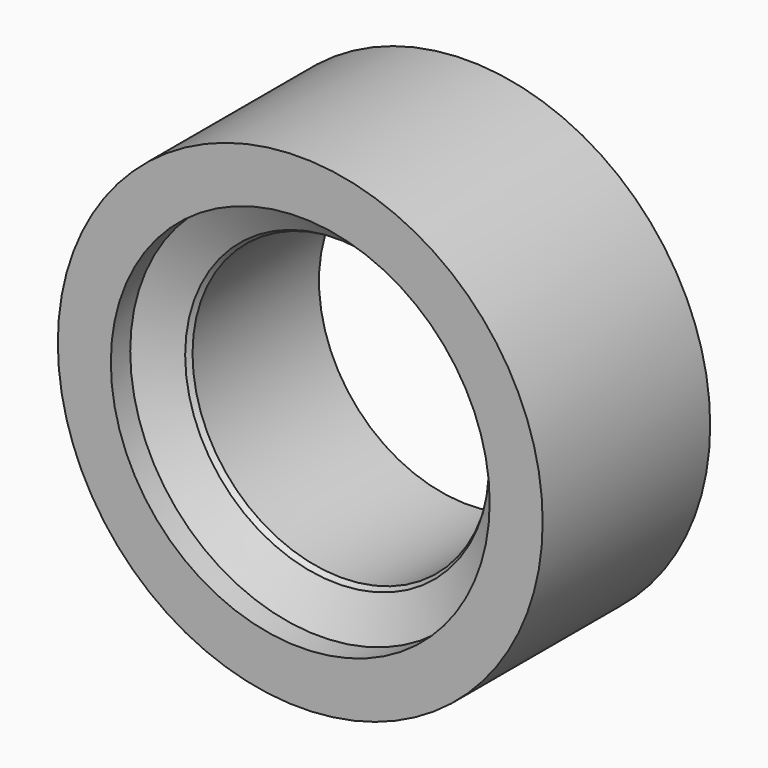
from build123d import *

# Parameters (mm, degrees)
F0_R     = 279.4
F0_R_2   = 171.45
F1_DEPTH = 241.3


with BuildPart() as f1:
    # F0 (on Front) → F1 (new body)
    with BuildSketch(Plane.XZ):
        Circle(F0_R)
        Circle(F0_R_2, mode=Mode.SUBTRACT)
    extrude(amount=F1_DEPTH)

    # F2 (on Top) → F3 (revolve, cut)
    with BuildSketch(Plane.XY):
        Polygon((-218.313, -213.36), (-218.313, -248.940435), (-138.143639, -248.940435), (-150.698322, -174.322647), (-162.82623, -167.260711), (-175.006, -188.356692), align=None)
    revolve(axis=Axis((0, -122.0978, 0), (0, -1, 0)), mode=Mode.SUBTRACT)


solid = f1.part
